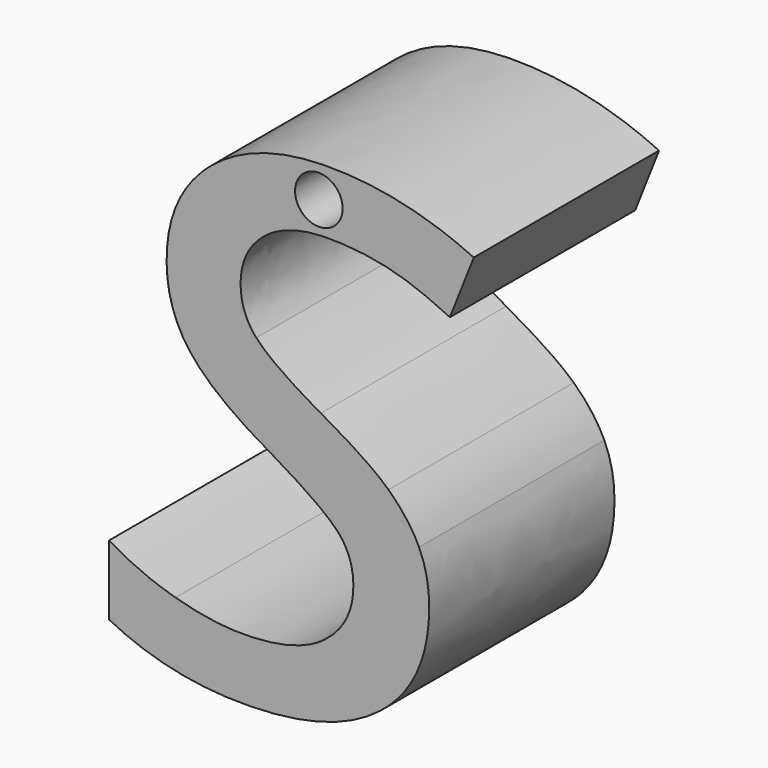
from build123d import *

# Parameters (mm, degrees)
F0_R     = 2.6087780621
F1_DEPTH = 25.4


with BuildPart() as f1:
    # F0 (on Front) → F1 (new body)
    with BuildSketch(Plane.XZ):
        with BuildLine():
            add(Edge.make_bspline(
                [(12.1038620855, 15.0254839682), (12.1038620855, 7.4818253504), (6.7630136174, 3.2539756948)],
                knots=[0, 0, 0, 1, 1, 1], degree=2))
            add(Edge.make_bspline(
                [(10.990863273, 20.4127073868), (12.1038620855, 18.0243974351), (12.1038620855, 15.0254839682)],
                knots=[0, 0, 0, 1, 1, 1], degree=2))
            add(Edge.make_bspline(
                [(7.6364085188, 24.8801609535), (9.8778644606, 22.8010173386), (10.990863273, 20.4127073868)],
                knots=[0, 0, 0, 1, 1, 1], degree=2))
            add(Edge.make_bspline(
                [(0.2164164358, 29.8500098175), (5.3949525771, 26.9593045685), (7.6364085188, 24.8801609535)],
                knots=[0, 0, 0, 1, 1, 1], degree=2))
            add(Edge.make_bspline(
                [(-6.8634926768, 34.8275878399), (-5.1476195076, 32.8952982349), (0.2164164358, 29.8500098175)],
                knots=[0, 0, 0, 1, 1, 1], degree=2))
            add(Edge.make_bspline(
                [(-8.579365846, 39.4650828918), (-8.579365846, 36.7598774448), (-6.8634926768, 34.8275878399)],
                knots=[0, 0, 0, 1, 1, 1], degree=2))
            add(Edge.make_bspline(
                [(-6.0132852506, 44.9064104194), (-8.579365846, 42.8040793292), (-8.579365846, 39.4650828918)],
                knots=[0, 0, 0, 1, 1, 1], degree=2))
            add(Edge.make_bspline(
                [(1.0357072283, 47.0087415096), (-3.4472046553, 47.0087415096), (-6.0132852506, 44.9064104194)],
                knots=[0, 0, 0, 1, 1, 1], degree=2))
            add(Edge.make_bspline(
                [(11.671029214, 44.9218687362), (6.7862010926, 47.0087415096), (1.0357072283, 47.0087415096)],
                knots=[0, 0, 0, 1, 1, 1], degree=2))
            Line((11.671029214, 44.9218687362), (14.3762346609, 43.7161200227))
            Line((14.3762346609, 43.7161200227), (16.9886902068, 50.3322796301))
            add(Edge.make_bspline(
                [(1.0357072283, 53.9186091369), (9.3059067375, 53.9186091369), (16.9886902068, 50.3322796301)],
                knots=[0, 0, 0, 1, 1, 1], degree=2))
            add(Edge.make_bspline(
                [(-11.8101540655, 49.8298843328), (-6.9253259442, 53.9186091369), (1.0357072283, 53.9186091369)],
                knots=[0, 0, 0, 1, 1, 1], degree=2))
            add(Edge.make_bspline(
                [(-16.6949821869, 39.0786249708), (-16.6949821869, 45.7411595287), (-11.8101540655, 49.8298843328)],
                knots=[0, 0, 0, 1, 1, 1], degree=2))
            add(Edge.make_bspline(
                [(-14.082526641, 31.0634876894), (-16.6949821869, 34.4411299189), (-16.6949821869, 39.0786249708)],
                knots=[0, 0, 0, 1, 1, 1], degree=2))
            add(Edge.make_bspline(
                [(-5.1939944581, 24.1613492205), (-11.4700710951, 27.6858454599), (-14.082526641, 31.0634876894)],
                knots=[0, 0, 0, 1, 1, 1], degree=2))
            add(Edge.make_bspline(
                [(2.1023310902, 18.9828130792), (0.4173745547, 20.8687277336), (-5.1939944581, 24.1613492205)],
                knots=[0, 0, 0, 1, 1, 1], degree=2))
            add(Edge.make_bspline(
                [(3.7872876257, 14.3453180273), (3.7872876257, 17.0968984247), (2.1023310902, 18.9828130792)],
                knots=[0, 0, 0, 1, 1, 1], degree=2))
            add(Edge.make_bspline(
                [(0.6956242578, 8.1619912914), (3.7872876257, 10.5734887184), (3.7872876257, 14.3453180273)],
                knots=[0, 0, 0, 1, 1, 1], degree=2))
            add(Edge.make_bspline(
                [(-8.4711576282, 5.7504938644), (-2.3960391102, 5.7504938644), (0.6956242578, 8.1619912914)],
                knots=[0, 0, 0, 1, 1, 1], degree=2))
            add(Edge.make_bspline(
                [(-15.721108226, 6.8634926768), (-11.8101540655, 5.7504938644), (-8.4711576282, 5.7504938644)],
                knots=[0, 0, 0, 1, 1, 1], degree=2))
            add(Edge.make_bspline(
                [(-23.0174337743, 10.0015309953), (-19.6320623864, 7.9764914893), (-15.721108226, 6.8634926768)],
                knots=[0, 0, 0, 1, 1, 1], degree=2))
            Line((-23.0174337743, 10.0015309953), (-23.0174337743, 2.3651224765))
            add(Edge.make_bspline(
                [(-8.2856578261, -0.9738739609), (-16.4476491175, -0.9738739609), (-23.0174337743, 2.3651224765)],
                knots=[0, 0, 0, 1, 1, 1], degree=2))
            add(Edge.make_bspline(
                [(6.7630136174, 3.2539756948), (1.4221651493, -0.9738739609), (-8.2856578261, -0.9738739609)],
                knots=[0, 0, 0, 1, 1, 1], degree=2))
        make_face()
        with Locations((0, 50.3822378814)):
            Circle(F0_R, mode=Mode.SUBTRACT)
    extrude(amount=F1_DEPTH)


solid = f1.part
